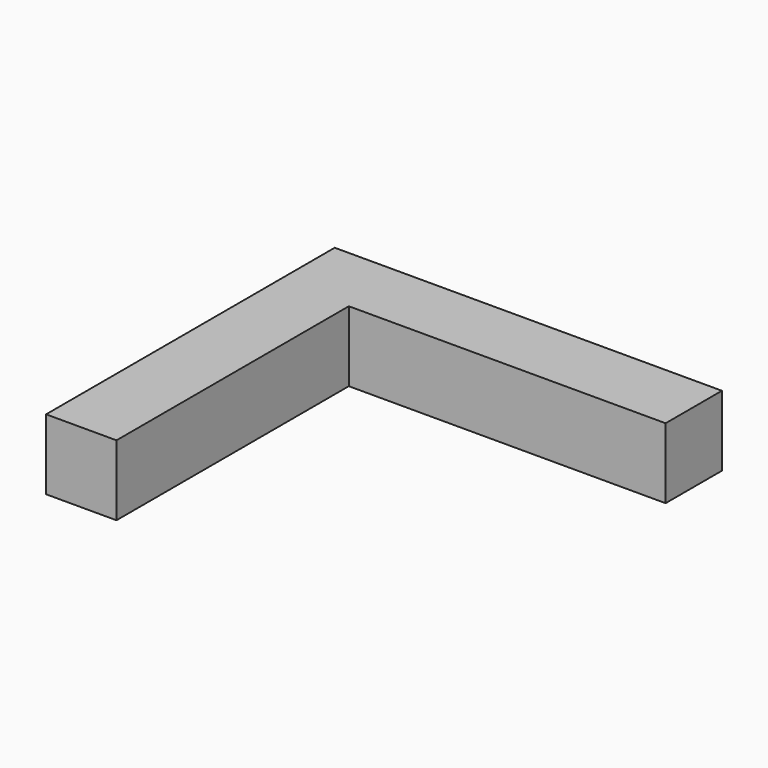
from build123d import *

# Parameters (mm, degrees)
BOX162_W     = 9
BOX162_H     = 2
BOX162_DEPTH = 2
BOX160_W     = 2
BOX160_H     = 10.25
BOX160_DEPTH = 2


with BuildPart() as cube151:
    # Box162 → Box162 (new body)
    with BuildSketch(Plane(origin=(43.5, 28.25, 2), x_dir=(1, 0, 0), z_dir=(0, 0, 1))):
        with Locations((4.5, 1)):
            Rectangle(BOX162_W, BOX162_H)
    extrude(amount=BOX162_DEPTH)


with BuildPart() as fusion050:
    # Box160 → Box160 (new body)
    with BuildSketch(Plane(origin=(41.5, 20, 2), x_dir=(1, 0, 0), z_dir=(0, 0, 1))):
        with Locations((1, 5.125)):
            Rectangle(BOX160_W, BOX160_H)
    extrude(amount=BOX160_DEPTH)

    # Fusion050: union Cube151
    add(cube151.part)


solid = fusion050.part
